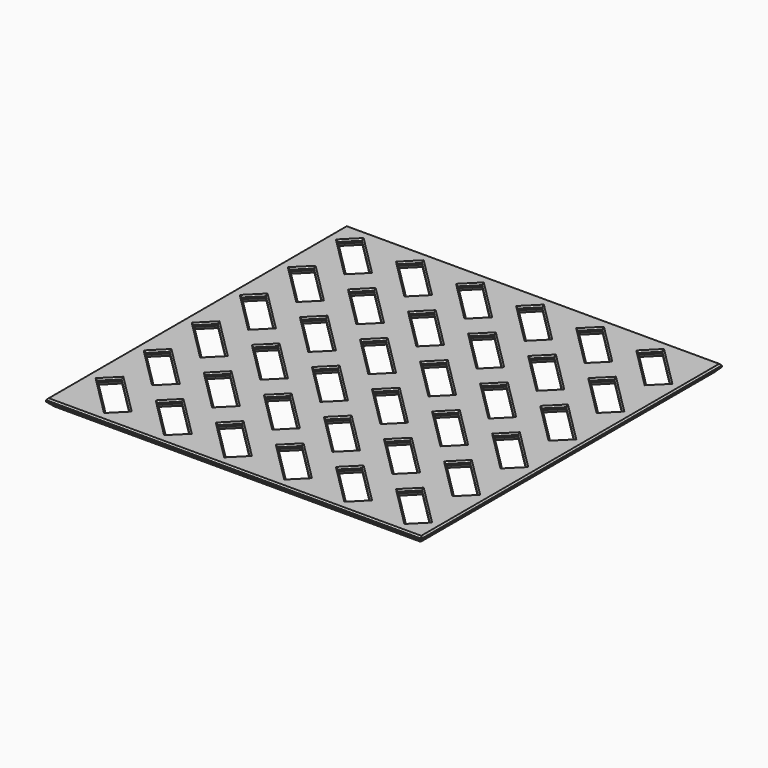
from build123d import *

# Parameters (mm, degrees)
F0_W     = 100
F0_H     = 100
F1_DEPTH = 2
F2_SIZE  = 0.4
F3_SIZE  = 1.2


with BuildPart() as f1:
    # F0 (on Top) → F1 (new body)
    with BuildSketch(Plane.XY):
        Rectangle(F0_W, F0_H)
        Polygon((-36.464466, -47.071068), (-47.071068, -36.464466), (-43.535534, -32.928932), (-32.928932, -43.535534), align=None, mode=Mode.SUBTRACT)
        Polygon((-31.071068, -36.464466), (-27.535534, -32.928932), (-16.928932, -43.535534), (-20.464466, -47.071068), align=None, mode=Mode.SUBTRACT)
        Polygon((-15.071068, -36.464466), (-11.535534, -32.928932), (-0.928932, -43.535534), (-4.464466, -47.071068), align=None, mode=Mode.SUBTRACT)
        Polygon((-47.071068, -20.464466), (-43.535534, -16.928932), (-32.928932, -27.535534), (-36.464466, -31.071068), align=None, mode=Mode.SUBTRACT)
        Polygon((-47.071068, -4.464466), (-43.535534, -0.928932), (-32.928932, -11.535534), (-36.464466, -15.071068), align=None, mode=Mode.SUBTRACT)
        Polygon((-31.071068, -20.464466), (-27.535534, -16.928932), (-16.928932, -27.535534), (-20.464466, -31.071068), align=None, mode=Mode.SUBTRACT)
        Polygon((-15.071068, -20.464466), (-11.535534, -16.928932), (-0.928932, -27.535534), (-4.464466, -31.071068), align=None, mode=Mode.SUBTRACT)
        Polygon((-31.071068, -4.464466), (-27.535534, -0.928932), (-16.928932, -11.535534), (-20.464466, -15.071068), align=None, mode=Mode.SUBTRACT)
        Polygon((-15.071068, -4.464466), (-11.535534, -0.928932), (-0.928932, -11.535534), (-4.464466, -15.071068), align=None, mode=Mode.SUBTRACT)
        Polygon((0.928932, -36.464466), (4.464466, -32.928932), (15.071068, -43.535534), (11.535534, -47.071068), align=None, mode=Mode.SUBTRACT)
        Polygon((16.928932, -36.464466), (20.464466, -32.928932), (31.071068, -43.535534), (27.535534, -47.071068), align=None, mode=Mode.SUBTRACT)
        Polygon((32.928932, -36.464466), (36.464466, -32.928932), (47.071068, -43.535534), (43.535534, -47.071068), align=None, mode=Mode.SUBTRACT)
        Polygon((0.928932, -20.464466), (4.464466, -16.928932), (15.071068, -27.535534), (11.535534, -31.071068), align=None, mode=Mode.SUBTRACT)
        Polygon((16.928932, -20.464466), (20.464466, -16.928932), (31.071068, -27.535534), (27.535534, -31.071068), align=None, mode=Mode.SUBTRACT)
        Polygon((0.928932, -4.464466), (4.464466, -0.928932), (15.071068, -11.535534), (11.535534, -15.071068), align=None, mode=Mode.SUBTRACT)
        Polygon((16.928932, -4.464466), (20.464466, -0.928932), (31.071068, -11.535534), (27.535534, -15.071068), align=None, mode=Mode.SUBTRACT)
        Polygon((32.928932, -20.464466), (36.464466, -16.928932), (47.071068, -27.535534), (43.535534, -31.071068), align=None, mode=Mode.SUBTRACT)
        Polygon((32.928932, -4.464466), (36.464466, -0.928932), (47.071068, -11.535534), (43.535534, -15.071068), align=None, mode=Mode.SUBTRACT)
        Polygon((-47.071068, 11.535534), (-43.535534, 15.071068), (-32.928932, 4.464466), (-36.464466, 0.928932), align=None, mode=Mode.SUBTRACT)
        Polygon((-47.071068, 27.535534), (-43.535534, 31.071068), (-32.928932, 20.464466), (-36.464466, 16.928932), align=None, mode=Mode.SUBTRACT)
        Polygon((-31.071068, 11.535534), (-27.535534, 15.071068), (-16.928932, 4.464466), (-20.464466, 0.928932), align=None, mode=Mode.SUBTRACT)
        Polygon((-15.071068, 11.535534), (-11.535534, 15.071068), (-0.928932, 4.464466), (-4.464466, 0.928932), align=None, mode=Mode.SUBTRACT)
        Polygon((-31.071068, 27.535534), (-27.535534, 31.071068), (-16.928932, 20.464466), (-20.464466, 16.928932), align=None, mode=Mode.SUBTRACT)
        Polygon((-15.071068, 27.535534), (-11.535534, 31.071068), (-0.928932, 20.464466), (-4.464466, 16.928932), align=None, mode=Mode.SUBTRACT)
        Polygon((-47.071068, 43.535534), (-43.535534, 47.071068), (-32.928932, 36.464466), (-36.464466, 32.928932), align=None, mode=Mode.SUBTRACT)
        Polygon((-31.071068, 43.535534), (-27.535534, 47.071068), (-16.928932, 36.464466), (-20.464466, 32.928932), align=None, mode=Mode.SUBTRACT)
        Polygon((-15.071068, 43.535534), (-11.535534, 47.071068), (-0.928932, 36.464466), (-4.464466, 32.928932), align=None, mode=Mode.SUBTRACT)
        Polygon((0.928932, 11.535534), (4.464466, 15.071068), (15.071068, 4.464466), (11.535534, 0.928932), align=None, mode=Mode.SUBTRACT)
        Polygon((16.928932, 11.535534), (20.464466, 15.071068), (31.071068, 4.464466), (27.535534, 0.928932), align=None, mode=Mode.SUBTRACT)
        Polygon((0.928932, 27.535534), (4.464466, 31.071068), (15.071068, 20.464466), (11.535534, 16.928932), align=None, mode=Mode.SUBTRACT)
        Polygon((16.928932, 27.535534), (20.464466, 31.071068), (31.071068, 20.464466), (27.535534, 16.928932), align=None, mode=Mode.SUBTRACT)
        Polygon((32.928932, 11.535534), (36.464466, 15.071068), (47.071068, 4.464466), (43.535534, 0.928932), align=None, mode=Mode.SUBTRACT)
        Polygon((32.928932, 27.535534), (36.464466, 31.071068), (47.071068, 20.464466), (43.535534, 16.928932), align=None, mode=Mode.SUBTRACT)
        Polygon((0.928932, 43.535534), (4.464466, 47.071068), (15.071068, 36.464466), (11.535534, 32.928932), align=None, mode=Mode.SUBTRACT)
        Polygon((16.928932, 43.535534), (20.464466, 47.071068), (31.071068, 36.464466), (27.535534, 32.928932), align=None, mode=Mode.SUBTRACT)
        Polygon((32.928932, 43.535534), (36.464466, 47.071068), (47.071068, 36.464466), (43.535534, 32.928932), align=None, mode=Mode.SUBTRACT)
    extrude(amount=F1_DEPTH)

    # F2
    f2_edges = [f1.edges().sort_by_distance(p)[0] for p in [
        (-50, 0, 2),
        (0, -50, 2),
        (50, 0, 2),
        (0, 50, 2),
        (-38.232233, -38.232233, 2),
        (-34.696699, -45.303301, 2),
        (-41.767767, -41.767767, 2),
        (-45.303301, -34.696699, 2),
        (-25.767767, -41.767767, 2),
        (-29.303301, -34.696699, 2),
        (-22.232233, -38.232233, 2),
        (-18.696699, -45.303301, 2),
        (-9.767767, -41.767767, 2),
        (-13.303301, -34.696699, 2),
        (-6.232233, -38.232233, 2),
        (-2.696699, -45.303301, 2),
        (-38.232233, -22.232233, 2),
        (-34.696699, -29.303301, 2),
        (-41.767767, -25.767767, 2),
        (-45.303301, -18.696699, 2),
        (-45.303301, -2.696699, 2),
        (-38.232233, -6.232233, 2),
        (-34.696699, -13.303301, 2),
        (-41.767767, -9.767767, 2),
        (-22.232233, -22.232233, 2),
        (-18.696699, -29.303301, 2),
        (-25.767767, -25.767767, 2),
        (-29.303301, -18.696699, 2),
        (-9.767767, -25.767767, 2),
        (-13.303301, -18.696699, 2),
        (-6.232233, -22.232233, 2),
        (-2.696699, -29.303301, 2),
        (-29.303301, -2.696699, 2),
        (-22.232233, -6.232233, 2),
        (-18.696699, -13.303301, 2),
        (-25.767767, -9.767767, 2),
        (-13.303301, -2.696699, 2),
        (-6.232233, -6.232233, 2),
        (-2.696699, -13.303301, 2),
        (-9.767767, -9.767767, 2),
        (9.767767, -38.232233, 2),
        (13.303301, -45.303301, 2),
        (6.232233, -41.767767, 2),
        (2.696699, -34.696699, 2),
        (25.767767, -38.232233, 2),
        (29.303301, -45.303301, 2),
        (22.232233, -41.767767, 2),
        (18.696699, -34.696699, 2),
        (38.232233, -41.767767, 2),
        (34.696699, -34.696699, 2),
        (41.767767, -38.232233, 2),
        (45.303301, -45.303301, 2),
        (9.767767, -22.232233, 2),
        (13.303301, -29.303301, 2),
        (6.232233, -25.767767, 2),
        (2.696699, -18.696699, 2),
        (25.767767, -22.232233, 2),
        (29.303301, -29.303301, 2),
        (22.232233, -25.767767, 2),
        (18.696699, -18.696699, 2),
        (6.232233, -9.767767, 2),
        (2.696699, -2.696699, 2),
        (9.767767, -6.232233, 2),
        (13.303301, -13.303301, 2),
        (22.232233, -9.767767, 2),
        (18.696699, -2.696699, 2),
        (25.767767, -6.232233, 2),
        (29.303301, -13.303301, 2),
        (34.696699, -18.696699, 2),
        (41.767767, -22.232233, 2),
        (45.303301, -29.303301, 2),
        (38.232233, -25.767767, 2),
        (45.303301, -13.303301, 2),
        (38.232233, -9.767767, 2),
        (34.696699, -2.696699, 2),
        (41.767767, -6.232233, 2),
        (-41.767767, 6.232233, 2),
        (-45.303301, 13.303301, 2),
        (-38.232233, 9.767767, 2),
        (-34.696699, 2.696699, 2),
        (-41.767767, 22.232233, 2),
        (-45.303301, 29.303301, 2),
        (-38.232233, 25.767767, 2),
        (-34.696699, 18.696699, 2),
        (-29.303301, 13.303301, 2),
        (-22.232233, 9.767767, 2),
        (-18.696699, 2.696699, 2),
        (-25.767767, 6.232233, 2),
        (-13.303301, 13.303301, 2),
        (-6.232233, 9.767767, 2),
        (-2.696699, 2.696699, 2),
        (-9.767767, 6.232233, 2),
        (-22.232233, 25.767767, 2),
        (-18.696699, 18.696699, 2),
        (-25.767767, 22.232233, 2),
        (-29.303301, 29.303301, 2),
        (-6.232233, 25.767767, 2),
        (-2.696699, 18.696699, 2),
        (-9.767767, 22.232233, 2),
        (-13.303301, 29.303301, 2),
        (-34.696699, 34.696699, 2),
        (-41.767767, 38.232233, 2),
        (-45.303301, 45.303301, 2),
        (-38.232233, 41.767767, 2),
        (-29.303301, 45.303301, 2),
        (-22.232233, 41.767767, 2),
        (-18.696699, 34.696699, 2),
        (-25.767767, 38.232233, 2),
        (-2.696699, 34.696699, 2),
        (-9.767767, 38.232233, 2),
        (-13.303301, 45.303301, 2),
        (-6.232233, 41.767767, 2),
        (6.232233, 6.232233, 2),
        (2.696699, 13.303301, 2),
        (9.767767, 9.767767, 2),
        (13.303301, 2.696699, 2),
        (22.232233, 6.232233, 2),
        (18.696699, 13.303301, 2),
        (25.767767, 9.767767, 2),
        (29.303301, 2.696699, 2),
        (6.232233, 22.232233, 2),
        (2.696699, 29.303301, 2),
        (9.767767, 25.767767, 2),
        (13.303301, 18.696699, 2),
        (22.232233, 22.232233, 2),
        (18.696699, 29.303301, 2),
        (25.767767, 25.767767, 2),
        (29.303301, 18.696699, 2),
        (45.303301, 2.696699, 2),
        (38.232233, 6.232233, 2),
        (34.696699, 13.303301, 2),
        (41.767767, 9.767767, 2),
        (45.303301, 18.696699, 2),
        (38.232233, 22.232233, 2),
        (34.696699, 29.303301, 2),
        (41.767767, 25.767767, 2),
        (9.767767, 41.767767, 2),
        (13.303301, 34.696699, 2),
        (6.232233, 38.232233, 2),
        (2.696699, 45.303301, 2),
        (18.696699, 45.303301, 2),
        (25.767767, 41.767767, 2),
        (29.303301, 34.696699, 2),
        (22.232233, 38.232233, 2),
        (34.696699, 45.303301, 2),
        (41.767767, 41.767767, 2),
        (45.303301, 34.696699, 2),
        (38.232233, 38.232233, 2),
    ]]
    chamfer(f2_edges, length=F2_SIZE)

    # F3
    f3_edges = [f1.edges().sort_by_distance(p)[0] for p in [
        (-50, 0, 0),
        (0, -50, 0),
        (50, 0, 0),
        (0, 50, 0),
        (-38.232233, -38.232233, 0),
        (-34.696699, -45.303301, 0),
        (-41.767767, -41.767767, 0),
        (-45.303301, -34.696699, 0),
        (-25.767767, -41.767767, 0),
        (-29.303301, -34.696699, 0),
        (-22.232233, -38.232233, 0),
        (-18.696699, -45.303301, 0),
        (-9.767767, -41.767767, 0),
        (-13.303301, -34.696699, 0),
        (-6.232233, -38.232233, 0),
        (-2.696699, -45.303301, 0),
        (-38.232233, -22.232233, 0),
        (-34.696699, -29.303301, 0),
        (-41.767767, -25.767767, 0),
        (-45.303301, -18.696699, 0),
        (-45.303301, -2.696699, 0),
        (-38.232233, -6.232233, 0),
        (-34.696699, -13.303301, 0),
        (-41.767767, -9.767767, 0),
        (-22.232233, -22.232233, 0),
        (-18.696699, -29.303301, 0),
        (-25.767767, -25.767767, 0),
        (-29.303301, -18.696699, 0),
        (-9.767767, -25.767767, 0),
        (-13.303301, -18.696699, 0),
        (-6.232233, -22.232233, 0),
        (-2.696699, -29.303301, 0),
        (-29.303301, -2.696699, 0),
        (-22.232233, -6.232233, 0),
        (-18.696699, -13.303301, 0),
        (-25.767767, -9.767767, 0),
        (-13.303301, -2.696699, 0),
        (-6.232233, -6.232233, 0),
        (-2.696699, -13.303301, 0),
        (-9.767767, -9.767767, 0),
        (9.767767, -38.232233, 0),
        (13.303301, -45.303301, 0),
        (6.232233, -41.767767, 0),
        (2.696699, -34.696699, 0),
        (25.767767, -38.232233, 0),
        (29.303301, -45.303301, 0),
        (22.232233, -41.767767, 0),
        (18.696699, -34.696699, 0),
        (38.232233, -41.767767, 0),
        (34.696699, -34.696699, 0),
        (41.767767, -38.232233, 0),
        (45.303301, -45.303301, 0),
        (9.767767, -22.232233, 0),
        (13.303301, -29.303301, 0),
        (6.232233, -25.767767, 0),
        (2.696699, -18.696699, 0),
        (25.767767, -22.232233, 0),
        (29.303301, -29.303301, 0),
        (22.232233, -25.767767, 0),
        (18.696699, -18.696699, 0),
        (6.232233, -9.767767, 0),
        (2.696699, -2.696699, 0),
        (9.767767, -6.232233, 0),
        (13.303301, -13.303301, 0),
        (22.232233, -9.767767, 0),
        (18.696699, -2.696699, 0),
        (25.767767, -6.232233, 0),
        (29.303301, -13.303301, 0),
        (34.696699, -18.696699, 0),
        (41.767767, -22.232233, 0),
        (45.303301, -29.303301, 0),
        (38.232233, -25.767767, 0),
        (45.303301, -13.303301, 0),
        (38.232233, -9.767767, 0),
        (34.696699, -2.696699, 0),
        (41.767767, -6.232233, 0),
        (-41.767767, 6.232233, 0),
        (-45.303301, 13.303301, 0),
        (-38.232233, 9.767767, 0),
        (-34.696699, 2.696699, 0),
        (-41.767767, 22.232233, 0),
        (-45.303301, 29.303301, 0),
        (-38.232233, 25.767767, 0),
        (-34.696699, 18.696699, 0),
        (-29.303301, 13.303301, 0),
        (-22.232233, 9.767767, 0),
        (-18.696699, 2.696699, 0),
        (-25.767767, 6.232233, 0),
        (-13.303301, 13.303301, 0),
        (-6.232233, 9.767767, 0),
        (-2.696699, 2.696699, 0),
        (-9.767767, 6.232233, 0),
        (-22.232233, 25.767767, 0),
        (-18.696699, 18.696699, 0),
        (-25.767767, 22.232233, 0),
        (-29.303301, 29.303301, 0),
        (-6.232233, 25.767767, 0),
        (-2.696699, 18.696699, 0),
        (-9.767767, 22.232233, 0),
        (-13.303301, 29.303301, 0),
        (-34.696699, 34.696699, 0),
        (-41.767767, 38.232233, 0),
        (-45.303301, 45.303301, 0),
        (-38.232233, 41.767767, 0),
        (-29.303301, 45.303301, 0),
        (-22.232233, 41.767767, 0),
        (-18.696699, 34.696699, 0),
        (-25.767767, 38.232233, 0),
        (-2.696699, 34.696699, 0),
        (-9.767767, 38.232233, 0),
        (-13.303301, 45.303301, 0),
        (-6.232233, 41.767767, 0),
        (6.232233, 6.232233, 0),
        (2.696699, 13.303301, 0),
        (9.767767, 9.767767, 0),
        (13.303301, 2.696699, 0),
        (22.232233, 6.232233, 0),
        (18.696699, 13.303301, 0),
        (25.767767, 9.767767, 0),
        (29.303301, 2.696699, 0),
        (6.232233, 22.232233, 0),
        (2.696699, 29.303301, 0),
        (9.767767, 25.767767, 0),
        (13.303301, 18.696699, 0),
        (22.232233, 22.232233, 0),
        (18.696699, 29.303301, 0),
        (25.767767, 25.767767, 0),
        (29.303301, 18.696699, 0),
        (45.303301, 2.696699, 0),
        (38.232233, 6.232233, 0),
        (34.696699, 13.303301, 0),
        (41.767767, 9.767767, 0),
        (45.303301, 18.696699, 0),
        (38.232233, 22.232233, 0),
        (34.696699, 29.303301, 0),
        (41.767767, 25.767767, 0),
        (9.767767, 41.767767, 0),
        (13.303301, 34.696699, 0),
        (6.232233, 38.232233, 0),
        (2.696699, 45.303301, 0),
        (18.696699, 45.303301, 0),
        (25.767767, 41.767767, 0),
        (29.303301, 34.696699, 0),
        (22.232233, 38.232233, 0),
        (34.696699, 45.303301, 0),
        (41.767767, 41.767767, 0),
        (45.303301, 34.696699, 0),
        (38.232233, 38.232233, 0),
    ]]
    chamfer(f3_edges, length=F3_SIZE)


solid = f1.part
